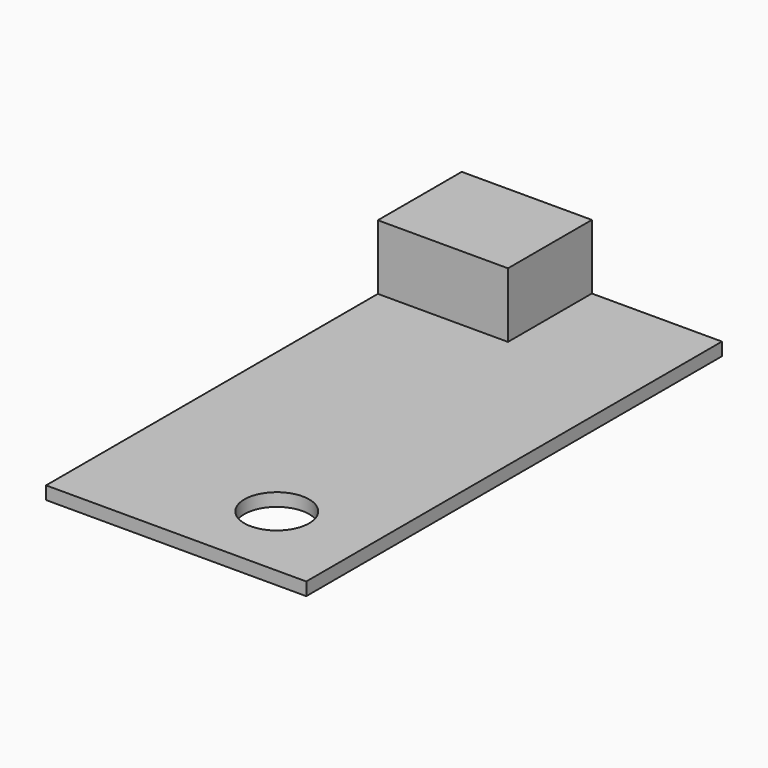
from build123d import *

# Parameters (mm, degrees)
F0_W     = 100.364631
F0_H     = 200.412475
F1_DEPTH = 5
F2_W     = 50.194541
F2_H     = 40.442418
F3_DEPTH = 25
F5_D     = 25


with BuildPart() as f1:
    # F0 (on Top) → F1 (new body)
    with BuildSketch(Plane.XY):
        with Locations((-26.610498, -24.112809)):
            Rectangle(F0_W, F0_H)
    extrude(amount=F1_DEPTH)

    # F2 (on face) → F3 (join)
    with BuildSketch(Plane.XY.offset(5)):
        with Locations((-51.695543, 55.872219)):
            Rectangle(F2_W, F2_H)
    extrude(amount=F3_DEPTH)

    # F5 (through all)
    with Locations(Plane.XY.offset(5)):
        with Locations((-11.947709, -94.156161)):
            Hole(F5_D / 2)


solid = f1.part
